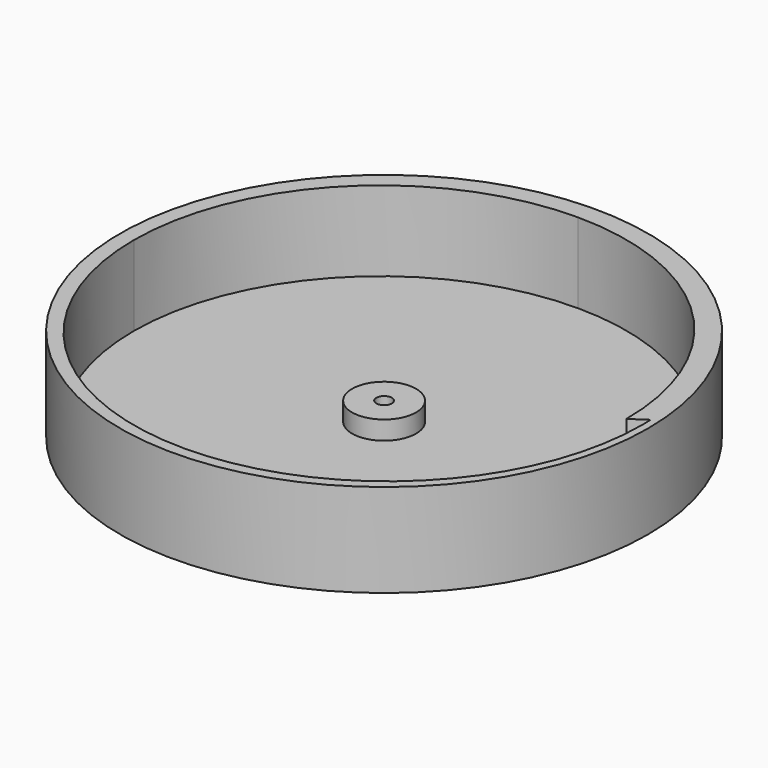
from build123d import *

# Parameters (mm, degrees)
F0_R     = 49.5
F0_R_2   = 1.45
F1_DEPTH = 2.5
F2_R     = 6
F2_R_2   = 1.45
F3_DEPTH = 3.5
F4_R     = 49.5
F5_DEPTH = 15


with BuildPart() as f1:
    # F0 (on Top) → F1 (new body)
    with BuildSketch(Plane.XY):
        Circle(F0_R)
        Circle(F0_R_2, mode=Mode.SUBTRACT)
    extrude(amount=F1_DEPTH)

    # F2 (on face) → F3 (join)
    with BuildSketch(Plane.XY.offset(2.5)):
        Circle(F2_R)
        Circle(F2_R_2, mode=Mode.SUBTRACT)
    extrude(amount=F3_DEPTH)

    # F4 (on face) → F5 (join)
    with BuildSketch(Plane.XY.offset(2.5)):
        Circle(F4_R)
        with BuildLine():
            ThreePointArc((-0.375, 45.875), (31.798359, 32.548359), (45.125, 0.375))
            Line((45.125, 0.375), (48.067823, 2.375))
            ThreePointArc((48.067823, 2.375), (48.106806, 1.375297), (48.125, 0.375))
            ThreePointArc((48.125, 0.375), (34.139349, -33.389349), (0.375, -47.375))
            ThreePointArc((0.375, -47.375), (-32.859019, -33.609019), (-46.625, -0.375))
            ThreePointArc((-46.625, -0.375), (-33.078689, 32.328689), (-0.375, 45.875))
        make_face(mode=Mode.SUBTRACT)
    extrude(amount=F5_DEPTH)


solid = f1.part
